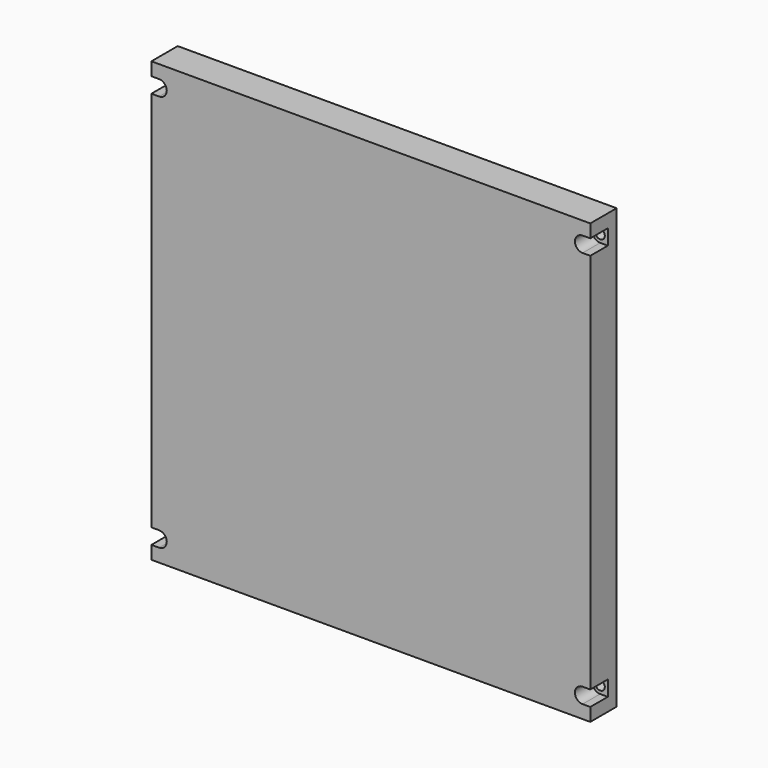
from build123d import *

# Parameters (mm, degrees)
F0_W     = 400
F0_H     = 400
F1_DEPTH = 30
F3_DEPTH = 20
F5_D     = 8.5


with BuildPart() as f1:
    # F0 (on Front) → F1 (new body)
    with BuildSketch(Plane.XZ):
        with Locations((200, 200)):
            Rectangle(F0_W, F0_H)
    extrude(amount=F1_DEPTH)

    # F2 (on face) → F3 (cut)
    with BuildSketch(Plane.XZ.offset(30)):
        with BuildLine():
            Line((7, 26), (0, 26))
            Line((0, 26), (0, 12))
            Line((0, 12), (7, 12))
            ThreePointArc((7, 12), (14, 19), (7, 26))
        make_face()
        with BuildLine():
            Line((393, 12), (400, 12))
            Line((400, 12), (400, 26))
            Line((400, 26), (393, 26))
            ThreePointArc((393, 26), (386, 19), (393, 12))
        make_face()
        with BuildLine():
            Line((400, 374), (400, 388))
            Line((400, 388), (393, 388))
            ThreePointArc((393, 388), (386, 381), (393, 374))
            Line((393, 374), (400, 374))
        make_face()
        with BuildLine():
            Line((0, 381), (0, 374))
            Line((0, 374), (7, 374))
            ThreePointArc((7, 374), (14, 381), (7, 388))
            Line((7, 388), (0, 388))
            Line((0, 388), (0, 381))
        make_face()
    extrude(amount=-F3_DEPTH, mode=Mode.SUBTRACT)

    # F5 (through all)
    with Locations(Plane.XZ.offset(10)):
        with Locations((7, 381), (393, 381), (393, 19), (7, 19)):
            Hole(F5_D / 2)


solid = f1.part
